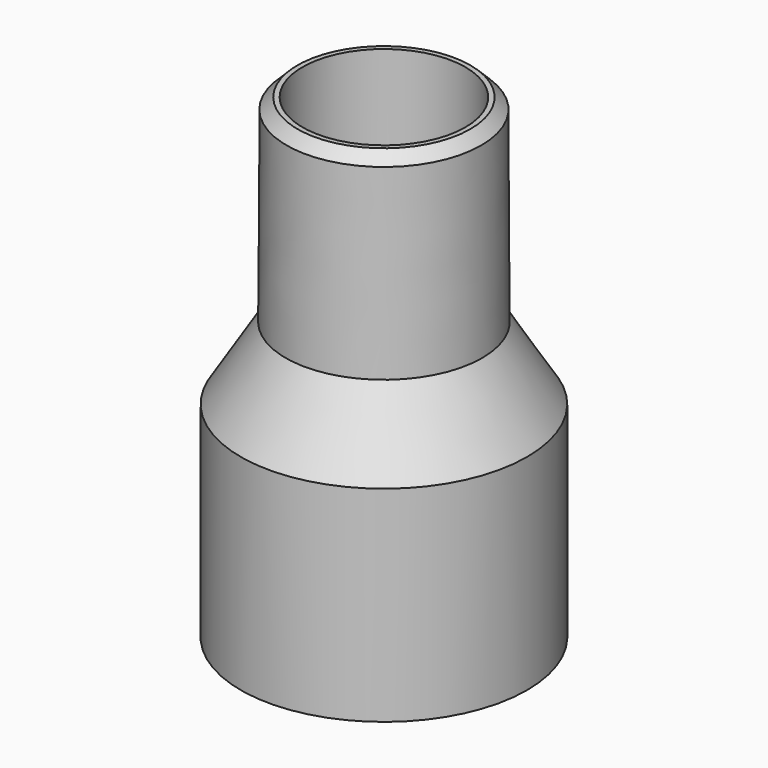
from build123d import *

# Parameters (mm, degrees)
F2_SIZE = 2
F3_SIZE = 1


with BuildPart() as f1:
    # F0 (on Front) → F1 (revolve)
    with BuildSketch(Plane.XZ):
        Polygon((22.5, 38), (22.5, 0), (26.5, 0), (26.5, 38), (18.2, 51.423181), (18, 88), (15.08, 88), (15.08, 50), align=None)
    revolve(axis=Axis((0, 0, 38.390822), (0, 0, 1)))

    # F2
    f2_edges = [f1.edges().sort_by_distance(p)[0] for p in [
        (-18, 0, 88),
    ]]
    chamfer(f2_edges, length=F2_SIZE)

    # F3
    f3_edges = [f1.edges().sort_by_distance(p)[0] for p in [
        (-22.5, 0, 0),
    ]]
    chamfer(f3_edges, length=F3_SIZE)


solid = f1.part
